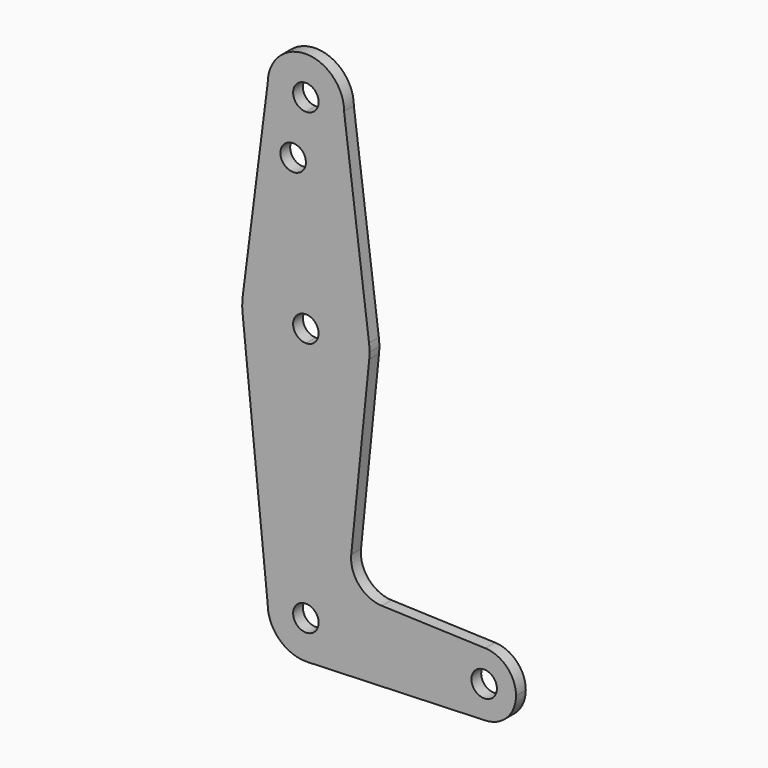
from build123d import *

# Parameters (mm, degrees)
F0_R     = 3.175
F1_DEPTH = 3.048


with BuildPart() as f1:
    # F0 (on Front) → F1 (new body)
    with BuildSketch(Plane.XZ):
        with BuildLine():
            Line((9.525, 0), (3.175, 0))
            ThreePointArc((3.175, 0), (-2.2450640303, -2.2450640303), (0, 3.175))
            Line((0, 3.175), (0, 9.525))
            ThreePointArc((0, 9.525), (-6.7351920908, 6.7351920908), (-9.525, 0))
            ThreePointArc((-9.525, 0), (-6.6138273206, -6.8544083022), (0.3401786191, -9.5189234427))
            ThreePointArc((0.3401786191, -9.5189234427), (6.8544083022, -6.6138273206), (9.525, 0))
        make_face()
        with BuildLine():
            ThreePointArc((0, 9.525), (6.7351920908, 6.7351920908), (9.525, 0))
            Line((9.525, 0), (36.5125, 0))
            ThreePointArc((36.5125, 0), (38.9384772185, 5.7120069047), (44.7334821429, 7.9324362036))
            Line((44.7334821429, 7.9324362036), (18.9333780848, 8.8544567023))
            ThreePointArc((18.9333780848, 8.8544567023), (13.2249730469, 11.5748807596), (11.3075770351, 17.6006742893))
            Line((11.3075770351, 17.6006742893), (15.7942028036, 61.9003804205))
            ThreePointArc((15.7942028036, 61.9003804205), (10.644756084, 51.722700101), (0, 47.625))
            Line((0, 47.625), (0, 9.525))
        make_face()
        with BuildLine():
            Line((36.5125, 0), (9.525, 0))
            ThreePointArc((9.525, 0), (6.8544083022, -6.6138273206), (0.3401786191, -9.5189234427))
            Line((0.3401786191, -9.5189234427), (44.7334821429, -7.9324362036))
            ThreePointArc((44.7334821429, -7.9324362036), (38.9384772185, -5.7120069047), (36.5125, 0))
        make_face()
        with BuildLine():
            ThreePointArc((-9.525, 0), (-6.7351920908, 6.7351920908), (0, 9.525))
            Line((0, 9.525), (0, 47.625))
            ThreePointArc((0, 47.625), (-10.644756084, 51.722700101), (-15.7942028036, 61.9003804205))
            Line((-15.7942028036, 61.9003804205), (-9.525, 0))
        make_face()
        with BuildLine():
            ThreePointArc((44.7334821429, 7.9324362036), (38.9384772185, 5.7120069047), (36.5125, 0))
            ThreePointArc((36.5125, 0), (38.9384772185, -5.7120069047), (44.7334821429, -7.9324362036))
            ThreePointArc((44.7334821429, -7.9324362036), (50.1620069047, -5.5115227815), (52.3875, 0))
            ThreePointArc((52.3875, 0), (50.1620069047, 5.5115227815), (44.7334821429, 7.9324362036))
        make_face()
        with BuildLine():
            ThreePointArc((47.625, 0), (44.45, -3.175), (41.275, 0))
            ThreePointArc((41.275, 0), (44.45, 3.175), (47.625, 0))
        make_face(mode=Mode.SUBTRACT)
        with BuildLine():
            ThreePointArc((-15.7942028036, 61.9003804205), (-10.644756084, 51.722700101), (0, 47.625))
            Line((0, 47.625), (0, 60.325))
            ThreePointArc((0, 60.325), (-3.175, 63.5), (0, 66.675))
            Line((0, 66.675), (0, 79.375))
            ThreePointArc((0, 79.375), (-10.4912829052, 75.4142187324), (-15.7474569217, 65.5082891972))
            ThreePointArc((-15.7474569217, 65.5082891972), (-15.8736676919, 63.7056672275), (-15.7942028036, 61.9003804205))
        make_face()
        with BuildLine():
            Line((0, 60.325), (0, 47.625))
            ThreePointArc((0, 47.625), (10.644756084, 51.722700101), (15.7942028036, 61.9003804205))
            ThreePointArc((15.7942028036, 61.9003804205), (15.8547878338, 62.6991705884), (15.875, 63.5))
            ThreePointArc((15.875, 63.5), (15.8430821473, 64.5061675175), (15.7474569356, 65.5082890878))
            ThreePointArc((15.7474569356, 65.5082890878), (10.4912829466, 75.4142186959), (0, 79.375))
            Line((0, 79.375), (0, 66.675))
            ThreePointArc((0, 66.675), (2.2450640303, 65.7450640303), (3.175, 63.5))
            ThreePointArc((3.175, 63.5), (2.2450640303, 61.2549359697), (0, 60.325))
        make_face()
        with BuildLine():
            Line((-9.525, 114.3), (-15.7474569217, 65.5082891972))
            ThreePointArc((-15.7474569217, 65.5082891972), (-10.4912829052, 75.4142187324), (0, 79.375))
            Line((0, 79.375), (0, 100.0252))
            Line((0, 100.0252), (0, 104.775))
            ThreePointArc((0, 104.775), (-6.7351920908, 107.5648079092), (-9.525, 114.3))
        make_face()
        with Locations((-3.175, 100.0252)):
            Circle(F0_R, mode=Mode.SUBTRACT)
        with BuildLine():
            Line((0, 100.0252), (0, 79.375))
            ThreePointArc((0, 79.375), (10.4912829466, 75.4142186959), (15.7474569356, 65.5082890878))
            Line((15.7474569356, 65.5082890878), (9.525, 114.3))
            ThreePointArc((9.525, 114.3), (6.7351920908, 107.5648079092), (0, 104.775))
            Line((0, 104.775), (0, 100.0252))
        make_face()
        with BuildLine():
            ThreePointArc((9.525, 114.3), (0, 123.825), (-9.525, 114.3))
            ThreePointArc((-9.525, 114.3), (-6.7351920908, 107.5648079092), (0, 104.775))
            ThreePointArc((0, 104.775), (6.7351920908, 107.5648079092), (9.525, 114.3))
        make_face()
        with BuildLine():
            ThreePointArc((3.175, 114.3), (2.2450640303, 112.0549359697), (0, 111.125))
            ThreePointArc((0, 111.125), (-2.2450640303, 116.5450640303), (3.175, 114.3))
        make_face(mode=Mode.SUBTRACT)
        with BuildLine():
            ThreePointArc((0, 3.175), (2.2450640303, 2.2450640303), (3.175, 0))
            Line((3.175, 0), (9.525, 0))
            ThreePointArc((9.525, 0), (6.7351920908, 6.7351920908), (0, 9.525))
            Line((0, 9.525), (0, 3.175))
        make_face()
    extrude(amount=F1_DEPTH)


solid = f1.part
